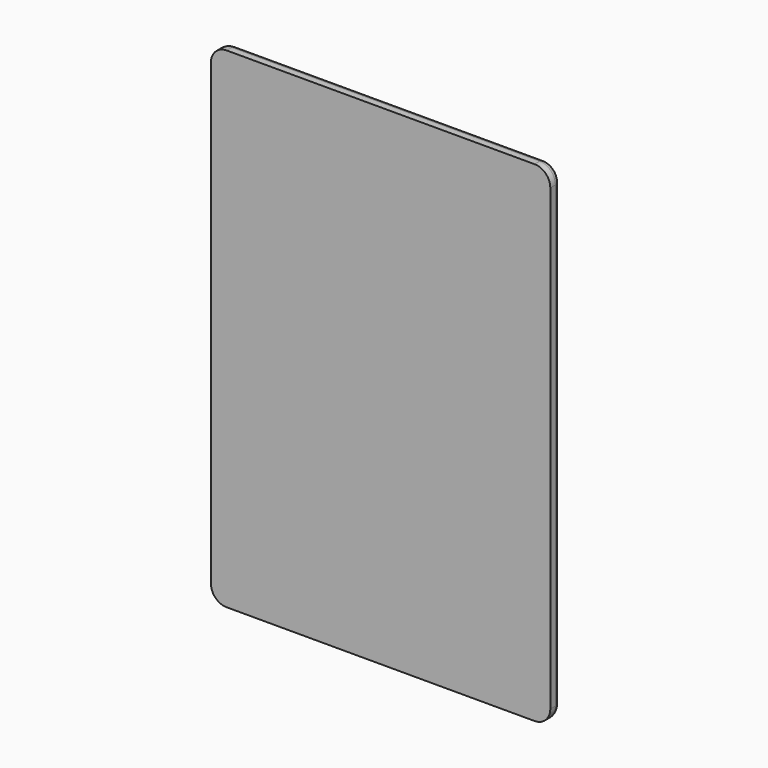
from build123d import *

# Parameters (mm, degrees)
BOX003_W     = 2
BOX003_H     = 54
BOX003_DEPTH = 78
FILLET003_R  = 2.5
FILLET004_R  = 1


with BuildPart() as part:
    # Box003 → Box003 (new body)
    with BuildSketch(Plane(origin=(3, 18, -7), x_dir=(0, 1, 0), z_dir=(0, 0, 1))):
        with Locations((1, 27)):
            Rectangle(BOX003_W, BOX003_H)
    extrude(amount=BOX003_DEPTH)

    # Fillet003
    fillet003_edges = [part.edges().sort_by_distance(p)[0] for p in [
        (3, 19, -7),
        (3, 19, 71),
        (-51, 19, -7),
        (-51, 19, 71),
    ]]
    fillet(fillet003_edges, radius=FILLET003_R)

    # Fillet004
    fillet004_edges = [part.edges().sort_by_distance(p)[0] for p in [
        (3, 20, 32),
        (-24, 20, -7),
        (-24, 20, 71),
        (-51, 20, 32),
    ]]
    fillet(fillet004_edges, radius=FILLET004_R)


solid = part.part
